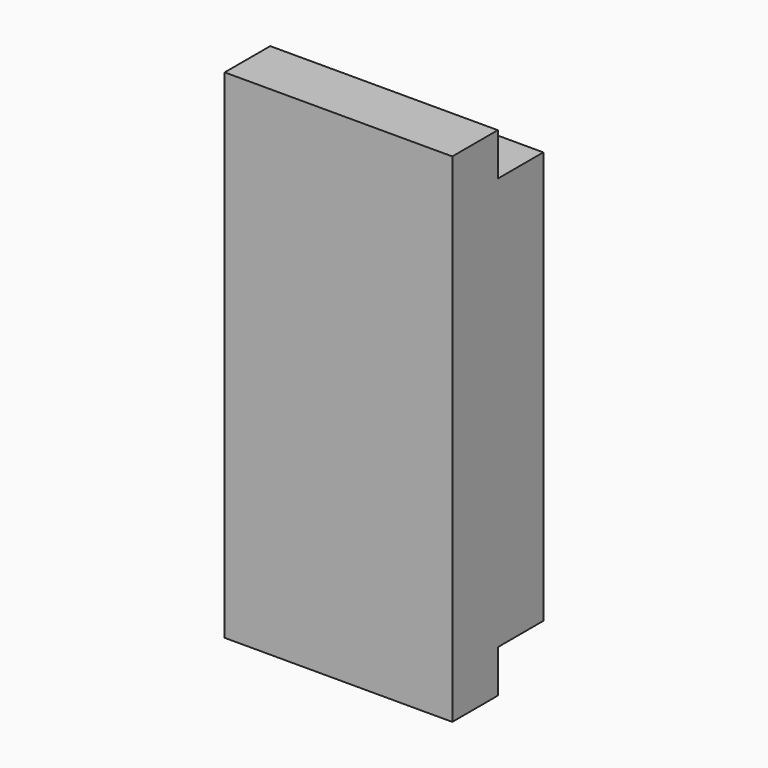
from build123d import *

# Parameters (mm, degrees)
F0_W     = 101.6
F0_H     = 50.8
F1_DEPTH = 184.15
F2_W     = 25.4
F2_H     = 19.05
F3_DEPTH = 101.6


with BuildPart() as f1:
    # F0 (on Top) → F1 (new body)
    with BuildSketch(Plane.XY):
        Rectangle(F0_W, F0_H)
    extrude(amount=F1_DEPTH)

    # F2 (on face) → F3 (join, through all)
    with BuildSketch(Plane.YZ.offset(50.8)):
        with Locations((-12.7, -9.525)):
            Rectangle(F2_W, F2_H)
        with Locations((-12.7, 193.675)):
            Rectangle(F2_W, F2_H)
    extrude(amount=-F3_DEPTH)


solid = f1.part
